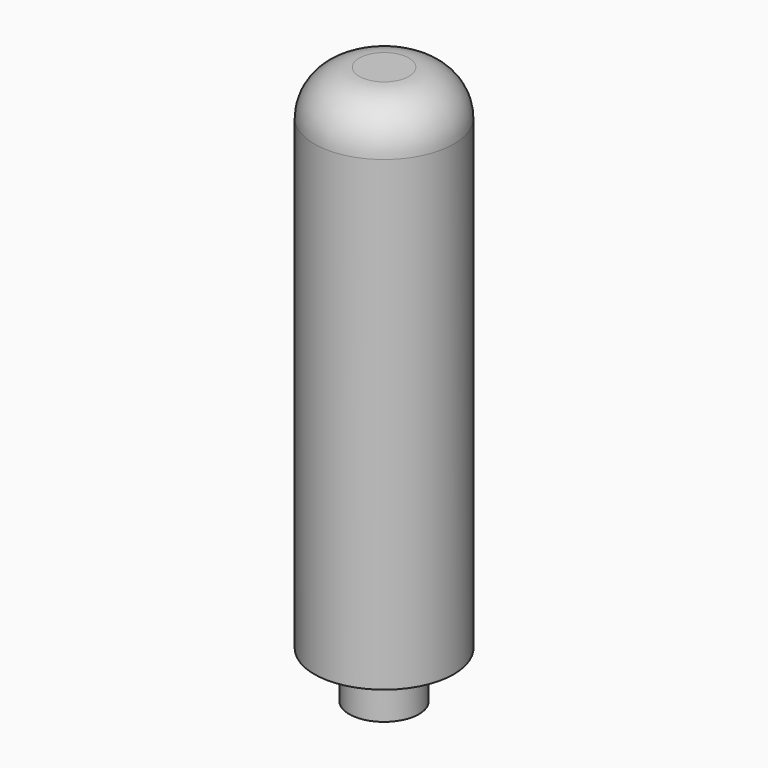
from build123d import *

# Parameters (mm, degrees)
F0_R     = 3
F1_DEPTH = 22
F2_R     = 1.931371
F3_R     = 1.5
F4_DEPTH = 2


with BuildPart() as f1:
    # F0 (on Top) → F1 (new body)
    with BuildSketch(Plane.XY):
        Circle(F0_R)
    extrude(amount=F1_DEPTH)

    # F2
    f2_edges = [f1.edges().sort_by_distance(p)[0] for p in [
        (-3, 0, 22),
    ]]
    fillet(f2_edges, radius=F2_R)

    # F3 (on face) → F4 (join)
    with BuildSketch(Plane(origin=(0, 0, 0), x_dir=(1, 0, 0), z_dir=(0, 0, -1))):
        Circle(F3_R)
    extrude(amount=F4_DEPTH)


solid = f1.part
